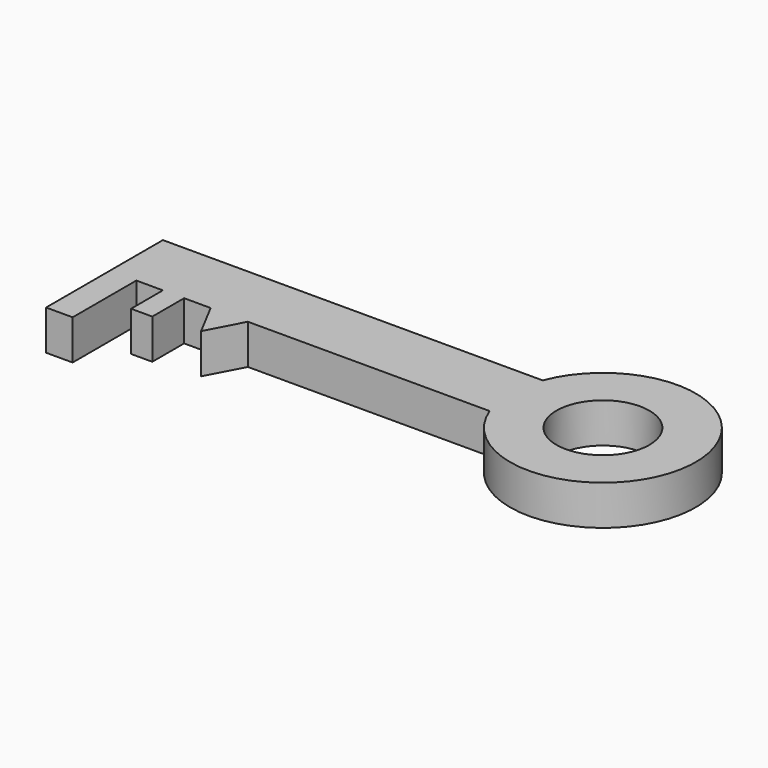
from build123d import *

# Parameters (mm, degrees)
F0_R     = 17.5
F1_DEPTH = 15


with BuildPart() as f1:
    # F0 (on Top) → F1 (new body)
    with BuildSketch(Plane.XY):
        with BuildLine():
            Line((-91.065587, 0), (0, 0))
            ThreePointArc((0, 0), (67.691742, 12.5), (0, 25))
            Line((0, 25), (-143.065587, 25))
            Line((-143.065587, 25), (-143.065587, 0))
            Line((-143.065587, 0), (-143.065587, -30))
            Line((-143.065587, -30), (-133.065587, -30))
            Line((-133.065587, -30), (-133.065587, 0))
            Line((-133.065587, 0), (-123.065587, 0))
            Line((-123.065587, 0), (-123.065587, -15))
            Line((-123.065587, -15), (-115.065587, -15))
            Line((-115.065587, -15), (-115.065587, 0))
            Line((-115.065587, 0), (-105.065587, 0))
            Line((-105.065587, 0), (-98.065587, -13.266499))
            Line((-98.065587, -13.266499), (-91.065587, 0))
        make_face()
        with Locations((32.691742, 12.5)):
            Circle(F0_R, mode=Mode.SUBTRACT)
    extrude(amount=F1_DEPTH)


solid = f1.part
